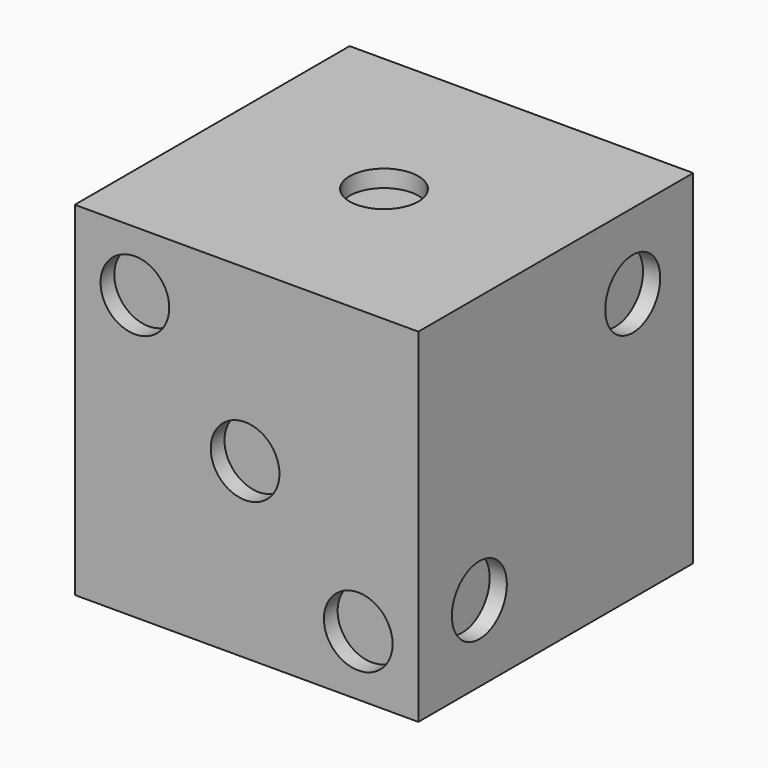
from build123d import *

# Parameters (mm, degrees)
F0_W     = 127
F0_H     = 127
F1_DEPTH = 127
F2_R     = 12.7
F3_DEPTH = 6.35
F4_R     = 12.7
F5_DEPTH = 6.35
F6_DEPTH = 6.35
F7_R     = 12.7
F8_DEPTH = 6.35


with BuildPart() as f1:
    # F0 (on Top) → F1 (new body)
    with BuildSketch(Plane.XY):
        with Locations((0.547273, 11.179494)):
            Rectangle(F0_W, F0_H)
    extrude(amount=F1_DEPTH)

    # F2 (on face) → F3 (cut)
    with BuildSketch(Plane.XY.offset(127)):
        with Locations((0.547273, 11.179494)):
            Circle(F2_R)
    extrude(amount=-F3_DEPTH, mode=Mode.SUBTRACT)

    # F4 (on face) → F5 (join)
    with BuildSketch(Plane.YZ.offset(64.047273)):
        with Locations((46.731588, 99.052094)):
            Circle(F4_R)
        with Locations((-24.13532, 28.185186)):
            Circle(F4_R)
    extrude(amount=-F5_DEPTH)

    # F4 (on face) → F6 (cut)
    with BuildSketch(Plane.YZ.offset(64.047273)):
        with Locations((46.731588, 99.052094)):
            Circle(F4_R)
        with Locations((-24.13532, 28.185186)):
            Circle(F4_R)
    extrude(amount=-F6_DEPTH, mode=Mode.SUBTRACT)

    # F7 (on face) → F8 (cut)
    with BuildSketch(Plane.XZ.offset(52.320506)):
        with Locations((-40.727727, 104.775)):
            Circle(F7_R)
        with Locations((0, 64.047273)):
            Circle(F7_R)
        with Locations((41.822273, 22.225)):
            Circle(F7_R)
    extrude(amount=-F8_DEPTH, mode=Mode.SUBTRACT)


solid = f1.part
